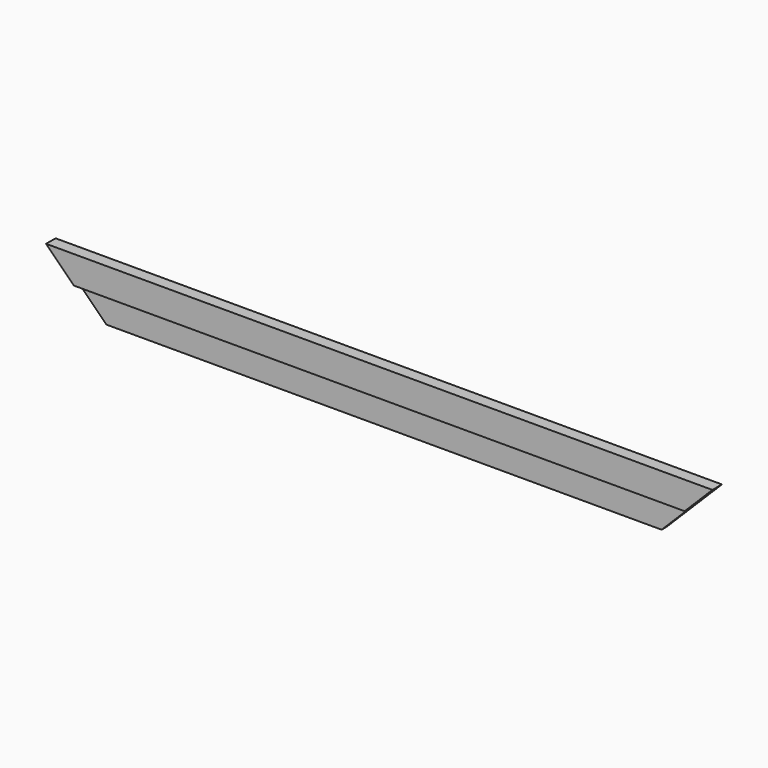
from build123d import *

# Parameters (mm, degrees)
F0_W     = 1066.8
F0_H     = 88.9
F1_DEPTH = 19.05
F2_W     = 9.525
F2_H     = 44.45
F3_DEPTH = 1066.801
F5_DEPTH = 19.051


with BuildPart() as f1:
    # F0 (on Front) → F1 (new body)
    with BuildSketch(Plane.XZ):
        with Locations((0, 44.45)):
            Rectangle(F0_W, F0_H)
    extrude(amount=F1_DEPTH)

    # F2 (on face) → F3 (cut, through all)
    with BuildSketch(Plane.YZ.offset(533.4)):
        with Locations((-14.2875, 22.225)):
            Rectangle(F2_W, F2_H)
    extrude(amount=-F3_DEPTH, mode=Mode.SUBTRACT)

    # F4 (on face) → F5 (cut, through all)
    with BuildSketch(Plane(origin=(0, 0, 0), x_dir=(-1, 0, 0), z_dir=(0, 1, 0))):
        Polygon((-444.5, 0), (-533.4, 88.9), (-533.4, 0), align=None)
        Polygon((444.5, 0), (533.4, 0), (533.4, 88.9), align=None)
    extrude(amount=-F5_DEPTH, mode=Mode.SUBTRACT)


solid = f1.part
